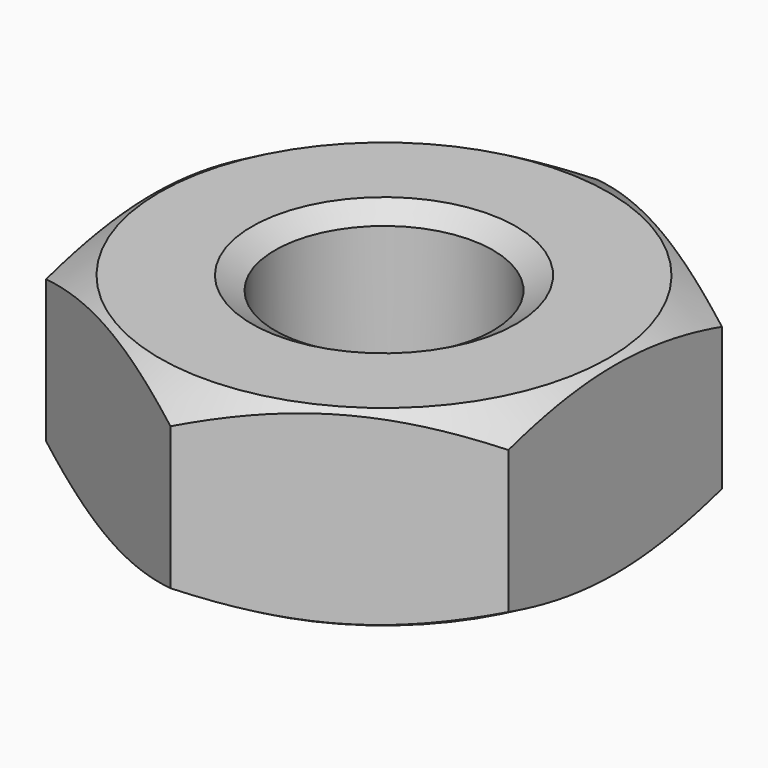
from build123d import *

# Parameters (mm, degrees)
SKETCH001_R  = 4.5
POCKET_DEPTH = 2.9


with BuildPart() as part:
    # Sketch → Revolution (revolve)
    with BuildSketch(Plane.XZ):
        Polygon((2, 0), (1.65, 0.202073), (1.65, 2.697927), (2, 2.9), (3.4, 2.9), (4.5, 2.264915), (4.5, 0.635085), (3.4, 0), align=None)
    revolve(axis=Axis((0, 0, 0), (0, 0, 1)))

    # Sketch001 → Pocket (cut)
    with BuildSketch(Plane(origin=(0, 0, 2.9), x_dir=(-1, 0, 0), z_dir=(0, 0, 1))):
        Circle(SKETCH001_R)
        Polygon((-3.5, 2.020726), (-3.5, -2.020726), (0, -4.041452), (3.5, -2.020726), (3.5, 2.020726), (0, 4.041452), align=None, mode=Mode.SUBTRACT)
    extrude(amount=-POCKET_DEPTH, mode=Mode.SUBTRACT)


solid = part.part
